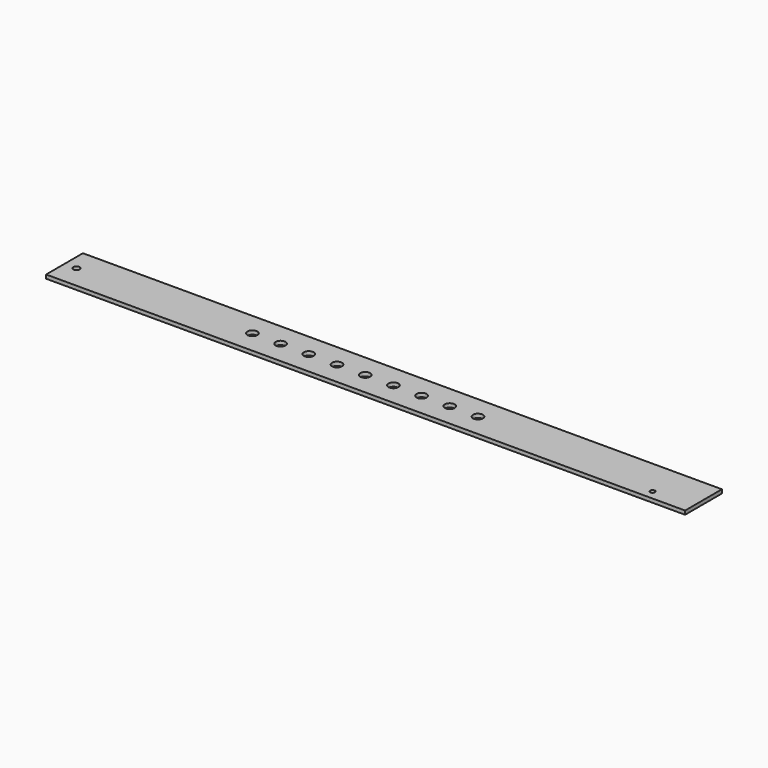
from build123d import *

# Parameters (mm, degrees)
F0_W     = 300
F0_H     = 24.5
F0_R     = 2.65
F1_DEPTH = 2
F2_DEPTH = 10
F3_DEPTH = 30
F4_R     = 1.7
F5_DEPTH = 2
F6_R     = 1.25
F7_DEPTH = 2


with BuildPart() as f1:
    # F0 (on Top) → F1 (new body)
    with BuildSketch(Plane.XY):
        Rectangle(F0_W, F0_H)
        with Locations((-60, 0)):
            Circle(F0_R, mode=Mode.SUBTRACT)
        with Locations((-45, 0)):
            Circle(F0_R, mode=Mode.SUBTRACT)
        with Locations((-30, 0)):
            Circle(F0_R, mode=Mode.SUBTRACT)
        with Locations((-15, 0)):
            Circle(F0_R, mode=Mode.SUBTRACT)
        Circle(F0_R, mode=Mode.SUBTRACT)
        with Locations((15, 0)):
            Circle(F0_R, mode=Mode.SUBTRACT)
        with Locations((30, 0)):
            Circle(F0_R, mode=Mode.SUBTRACT)
        with Locations((45, 0)):
            Circle(F0_R, mode=Mode.SUBTRACT)
        with Locations((60, 0)):
            Circle(F0_R, mode=Mode.SUBTRACT)
    extrude(amount=F1_DEPTH)

    # F2 (add): a face of the model
    f2_faces = [f1.faces().sort_by_distance(p)[0] for p in [
        (-150, 0, 1),
    ]]
    extrude(f2_faces, amount=F2_DEPTH)

    # F3 (add): a face of the model
    f3_faces = [f1.faces().sort_by_distance(p)[0] for p in [
        (150, 0, 1),
    ]]
    extrude(f3_faces, amount=F3_DEPTH)

    # F4 (on face) → F5 (cut, through all)
    with BuildSketch(Plane.XY.offset(2)):
        with Locations((-153.6, 0)):
            Circle(F4_R)
    extrude(amount=-F5_DEPTH, mode=Mode.SUBTRACT)

    # F6 (on face) → F7 (cut, through all)
    with BuildSketch(Plane.XY.offset(2)):
        with Locations((158.75, -7.25)):
            Circle(F6_R)
    extrude(amount=-F7_DEPTH, mode=Mode.SUBTRACT)


solid = f1.part
